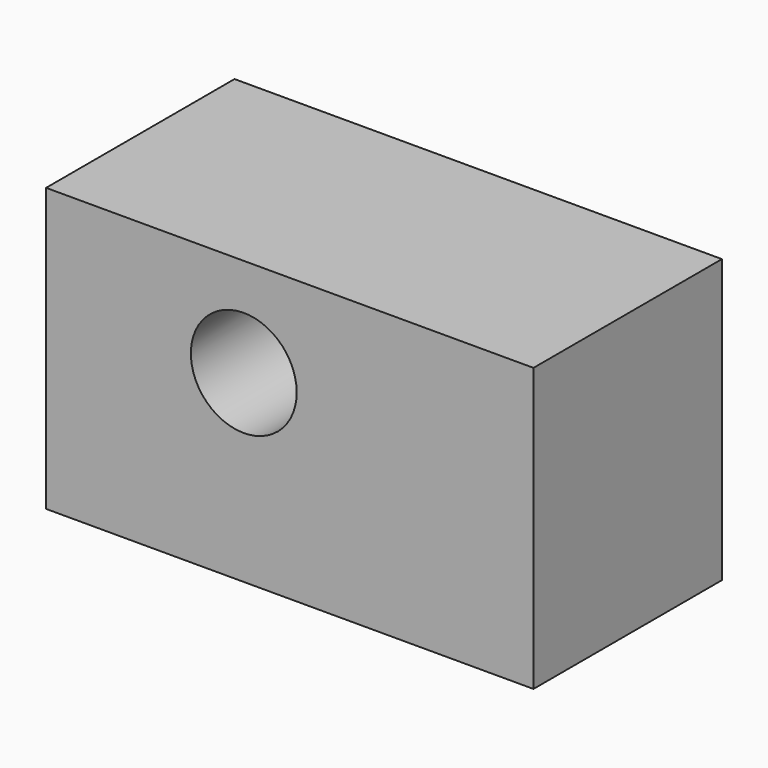
from build123d import *

# Parameters (mm, degrees)
F0_W      = 155.180738
F0_H      = 90
F1_DEPTH  = 25
F2_R      = 16.845897
F3_DEPTH  = 25.001
F1_FACE_W = 155.180738
F1_FACE_H = 90
F1_FACE_R = 16.845897
F4_DEPTH  = 50


with BuildPart() as f1:
    # F0 (on Front) → F1 (new body)
    with BuildSketch(Plane.XZ):
        with Locations((27.717258, -13.581821)):
            Rectangle(F0_W, F0_H)
    extrude(amount=F1_DEPTH)

    # F2 (on face) → F3 (cut, through all)
    with BuildSketch(Plane.XZ.offset(25)):
        with Locations((13.070613, 0)):
            Circle(F2_R)
    extrude(amount=-F3_DEPTH, mode=Mode.SUBTRACT)

    # F1_face (on face) → F4 (join)
    with BuildSketch(Plane(origin=(27.717258, -25, -13.581821), x_dir=(1, 0, 0), z_dir=(0, -1, 0))):
        Rectangle(F1_FACE_W, F1_FACE_H)
        with Locations((-14.646645, 13.581821)):
            Circle(F1_FACE_R, mode=Mode.SUBTRACT)
    extrude(amount=F4_DEPTH)


solid = f1.part
